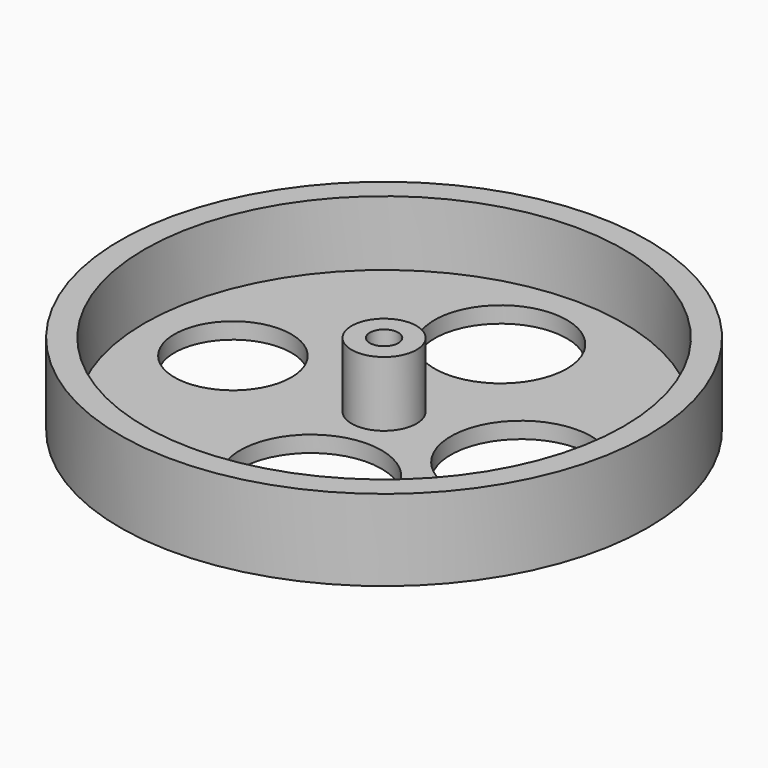
from build123d import *

# Parameters (mm, degrees)
F0_R      = 32.5
F1_DEPTH  = 10
F2_R      = 29.5
F3_DEPTH  = 8
F4_R      = 4
F5_DEPTH  = 8
F7_D      = 3.5
F9_R      = 7.586322
F10_DEPTH = 25
F11_R     = 7.195806
F12_DEPTH = 8
F13_R     = 8.139218
F14_DEPTH = 8
F15_R     = 9.181934
F16_DEPTH = 8
F17_R     = 9.467051
F18_DEPTH = 8
F19_R     = 8.617722
F20_DEPTH = 8
F21_R     = 8.650571
F22_DEPTH = 8
F23_R     = 7.543209
F24_DEPTH = 2
F25_R     = 9.251874
F26_DEPTH = 2
F27_R     = 9.863577
F28_DEPTH = 2
F29_R     = 8.708559
F30_DEPTH = 25


with BuildPart() as f1:
    # F0 (on Top) → F1 (new body)
    with BuildSketch(Plane.XY):
        Circle(F0_R)
    extrude(amount=F1_DEPTH)

    # F2 (on face) → F3 (cut)
    with BuildSketch(Plane.XY.offset(10)):
        Circle(F2_R)
    extrude(amount=-F3_DEPTH, mode=Mode.SUBTRACT)

    # F4 (on face) → F5 (join)
    with BuildSketch(Plane.XY.offset(2)):
        Circle(F4_R)
    extrude(amount=F5_DEPTH)

    # F7 (through all)
    with Locations(Plane.XY.offset(10)):
        with Locations((0, 0)):
            Hole(F7_D / 2)

    # F9 (on Top) → F10 (cut)
    with BuildSketch(Plane.XY):
        with Locations((-17.948439, -5.982571)):
            Circle(F9_R)
    extrude(amount=-F10_DEPTH, mode=Mode.SUBTRACT)

    # F11 (on Top) → F12 (cut)
    with BuildSketch(Plane.XY):
        with Locations((-18.613562, 0)):
            Circle(F11_R)
    extrude(amount=F12_DEPTH, mode=Mode.SUBTRACT)

    # F13 (on face) → F14 (cut)
    with BuildSketch(Plane.XY.offset(2)):
        with Locations((0, 17.952453)):
            Circle(F13_R)
    extrude(amount=-F14_DEPTH, mode=Mode.SUBTRACT)

    # F15 (on Top) → F16 (cut)
    with BuildSketch(Plane.XY):
        with Locations((-3.715688, -14.254572)):
            Circle(F15_R)
    extrude(amount=-F16_DEPTH, mode=Mode.SUBTRACT)

    # F17 (on Top) → F18 (cut)
    with BuildSketch(Plane.XY):
        with Locations((0, -15.324812)):
            Circle(F17_R)
    extrude(amount=-F18_DEPTH, mode=Mode.SUBTRACT)

    # F19 (on Top) → F20 (cut)
    with BuildSketch(Plane.XY):
        with Locations((15.627168, 0)):
            Circle(F19_R)
    extrude(amount=-F20_DEPTH, mode=Mode.SUBTRACT)

    # F21 (on face) → F22 (cut)
    with BuildSketch(Plane.XY.offset(2)):
        with Locations((16.869104, 0)):
            Circle(F21_R)
    extrude(amount=-F22_DEPTH, mode=Mode.SUBTRACT)

    # F23 (on face) → F24 (join)
    with BuildSketch(Plane.XY.offset(2)):
        with Locations((-4.684343, -11.25865)):
            Circle(F23_R)
    extrude(amount=-F24_DEPTH)

    # F25 (on face) → F26 (join)
    with BuildSketch(Plane.XY.offset(2)):
        with Locations((0, -16.615551)):
            Circle(F25_R)
    extrude(amount=-F26_DEPTH)

    # F27 (on face) → F28 (join)
    with BuildSketch(Plane.XY.offset(2)):
        with Locations((-4.199367, -15.142487)):
            Circle(F27_R)
    extrude(amount=-F28_DEPTH)

    # F29 (on face) → F30 (cut)
    with BuildSketch(Plane.XY.offset(2)):
        with Locations((2.921705, -14.926143)):
            Circle(F29_R)
    extrude(amount=-F30_DEPTH, mode=Mode.SUBTRACT)


solid = f1.part
